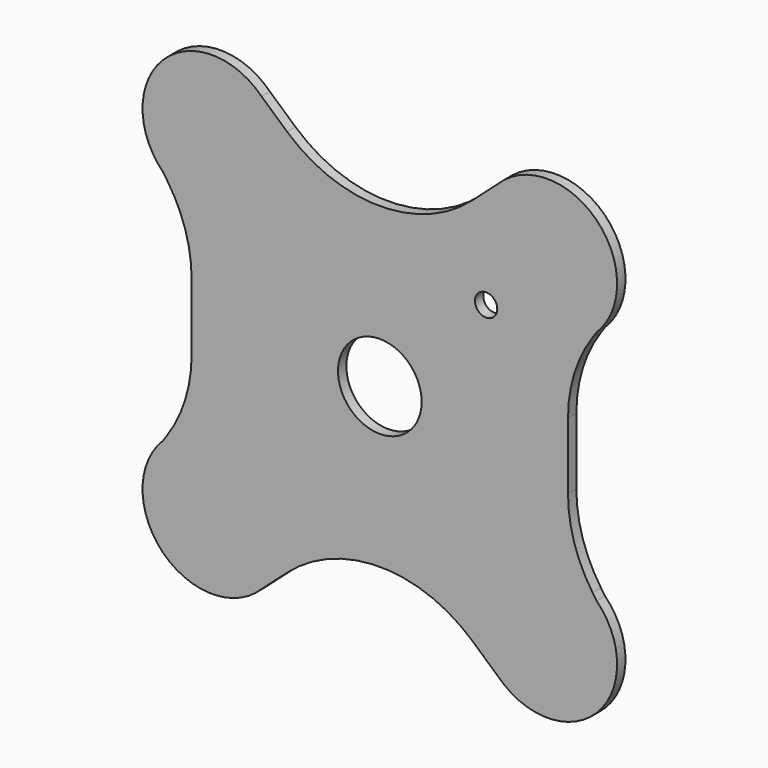
from build123d import *

# Parameters (mm, degrees)
F0_R     = 6
F0_R_2   = 1.6
F1_DEPTH = 1.5


with BuildPart() as f1:
    # F0 (on Front) → F1 (new body)
    with BuildSketch(Plane.XZ):
        with BuildLine():
            ThreePointArc((31.112698, 16.970563), (31.112698, 31.112698), (16.970563, 31.112698))
            Line((16.970563, 31.112698), (13.300916, 27.844789))
            ThreePointArc((13.300916, 27.844789), (0, 22.78084), (-13.300916, 27.844789))
            Line((-13.300916, 27.844789), (-16.970563, 31.112698))
            ThreePointArc((-16.970563, 31.112698), (-31.112698, 31.112698), (-31.112698, 16.970563))
            Line((-31.112698, 16.970563), (-30.529389, 16.12375))
            ThreePointArc((-30.529389, 16.12375), (-27.90272, 10.719178), (-27, 4.778312))
            Line((-27, 4.778312), (-27, -4.778312))
            ThreePointArc((-27, -4.778312), (-27.90272, -10.719178), (-30.529389, -16.12375))
            Line((-30.529389, -16.12375), (-31.112698, -16.970563))
            ThreePointArc((-31.112698, -16.970563), (-31.112698, -31.112698), (-16.970563, -31.112698))
            Line((-16.970563, -31.112698), (-13.300916, -27.844789))
            ThreePointArc((-13.300916, -27.844789), (0, -22.78084), (13.300916, -27.844789))
            Line((13.300916, -27.844789), (16.970563, -31.112698))
            ThreePointArc((16.970563, -31.112698), (31.112698, -31.112698), (31.112698, -16.970563))
            Line((31.112698, -16.970563), (30.529389, -16.12375))
            ThreePointArc((30.529389, -16.12375), (27.90272, -10.719178), (27, -4.778312))
            Line((27, -4.778312), (27, 4.778312))
            ThreePointArc((27, 4.778312), (27.90272, 10.719178), (30.529389, 16.12375))
            Line((30.529389, 16.12375), (31.112698, 16.970563))
        make_face()
        Circle(F0_R, mode=Mode.SUBTRACT)
        with Locations((15.25, 15.25)):
            Circle(F0_R_2, mode=Mode.SUBTRACT)
    extrude(amount=F1_DEPTH)


solid = f1.part
